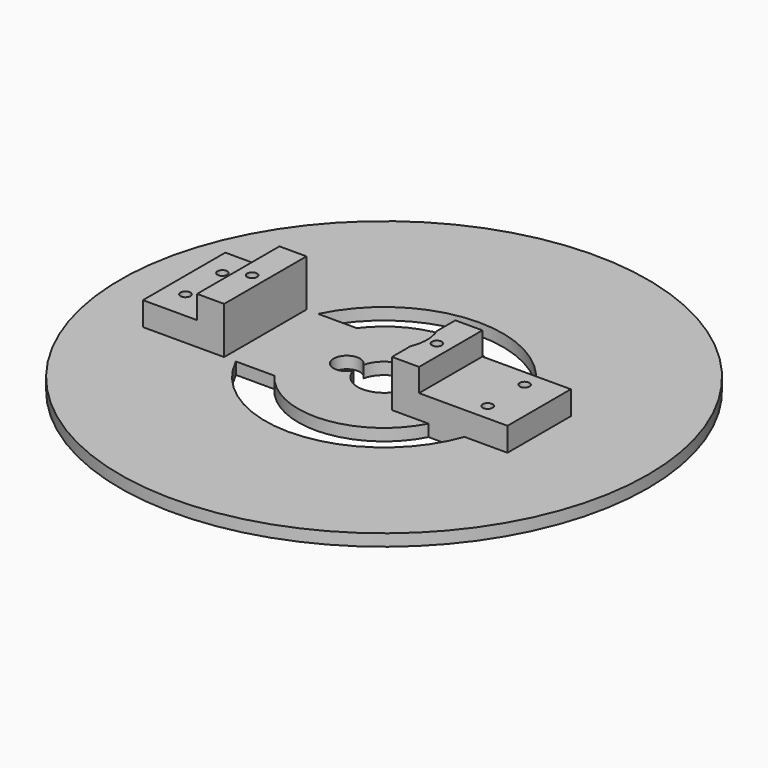
from build123d import *

# Parameters (mm, degrees)
SKETCH_R        = 40
PAD_DEPTH       = 1.8
POCKET_DEPTH    = 1.801
SKETCH002_W     = 17.5
SKETCH002_H     = 12
SKETCH002_W_2   = 12.3
SKETCH002_H_2   = 15.6
PAD001_DEPTH    = 3.6
SKETCH003_W     = 4.1
SKETCH003_H     = 12
PAD002_DEPTH    = 3.5
POCKET001_DEPTH = 7.1
SKETCH005_R     = 0.75
POCKET002_DEPTH = 5
SKETCH006_R     = 0.75
POCKET003_DEPTH = 5
SKETCH007_W     = 4.1
SKETCH007_H     = 15.6
PAD003_DEPTH    = 3.5
SKETCH008_R     = 0.75
POCKET004_DEPTH = 8
POCKET005_DEPTH = 1.801


with BuildPart() as part:
    # Sketch → Pad (new body)
    with BuildSketch(Plane.XY):
        Circle(SKETCH_R)
    extrude(amount=PAD_DEPTH)

    # Sketch001 → Pocket (cut, through all)
    with BuildSketch(Plane.XY.offset(1.8)):
        with BuildLine():
            ThreePointArc((-3.886947, -0.944269), (4, 0), (-3.886947, 0.944269))
            ThreePointArc((-3.886947, 0.944269), (-7.65, 0), (-3.886947, -0.944269))
        make_face()
    extrude(amount=-POCKET_DEPTH, mode=Mode.SUBTRACT)

    # Sketch002 → Pad001 (new body)
    with BuildSketch(Plane.XY.offset(1.8)):
        with Locations((14.75, 0)):
            Rectangle(SKETCH002_W, SKETCH002_H)
        with Locations((-24.15, 0)):
            Rectangle(SKETCH002_W_2, SKETCH002_H_2)
    extrude(amount=PAD001_DEPTH)

    # Sketch003 → Pad002 (new body)
    with BuildSketch(Plane.XY.offset(5.4)):
        with Locations((8.05, 0)):
            Rectangle(SKETCH003_W, SKETCH003_H)
    extrude(amount=PAD002_DEPTH)

    # Sketch004 → Pocket001 (cut)
    with BuildSketch(Plane.XY.offset(8.9)):
        with BuildLine():
            ThreePointArc((6, -2.5), (6.5, 0), (6, 2.5))
            Line((6, 2.5), (6, -2.5))
        make_face()
    extrude(amount=-POCKET001_DEPTH, mode=Mode.SUBTRACT)

    # Sketch005 → Pocket002 (cut)
    with BuildSketch(Plane.XY.offset(5.4)):
        with Locations((-27.3, 3.5)):
            Circle(SKETCH005_R)
        with Locations((-27.3, -3.5)):
            Circle(SKETCH005_R)
        with Locations((18.5, 3.5)):
            Circle(SKETCH005_R)
        with Locations((18.5, -3.5)):
            Circle(SKETCH005_R)
    extrude(amount=-POCKET002_DEPTH, mode=Mode.SUBTRACT)

    # Sketch006 → Pocket003 (cut)
    with BuildSketch(Plane.XY.offset(8.9)):
        with Locations((8, 0)):
            Circle(SKETCH006_R)
    extrude(amount=-POCKET003_DEPTH, mode=Mode.SUBTRACT)

    # Sketch007 → Pad003 (new body)
    with BuildSketch(Plane.XY.offset(5.4)):
        with Locations((-20.05, 0)):
            Rectangle(SKETCH007_W, SKETCH007_H)
    extrude(amount=PAD003_DEPTH)

    # Sketch008 → Pocket004 (cut)
    with BuildSketch(Plane.XY.offset(8.9)):
        with Locations((-20, 0)):
            Circle(SKETCH008_R)
    extrude(amount=-POCKET004_DEPTH, mode=Mode.SUBTRACT)

    # Sketch009 → Pocket005 (cut, through all)
    with BuildSketch(Plane.XY.offset(1.8)):
        with BuildLine():
            ThreePointArc((16.970563, 6), (0.974684, 17.973591), (-16.222207, 7.8))
            Line((-16.222207, 7.8), (-10.4, 7.8))
            ThreePointArc((11.532563, 6), (1.063332, 12.95644), (-10.4, 7.8))
            Line((11.532563, 6), (16.970563, 6))
        make_face()
        with BuildLine():
            ThreePointArc((-10.4, -7.8), (1.063332, -12.95644), (11.532563, -6))
            Line((11.532563, -6), (16.970563, -6))
            ThreePointArc((-16.222207, -7.8), (0.974684, -17.973591), (16.970563, -6))
            Line((-16.222207, -7.8), (-10.4, -7.8))
        make_face()
    extrude(amount=-POCKET005_DEPTH, mode=Mode.SUBTRACT)


solid = part.part
